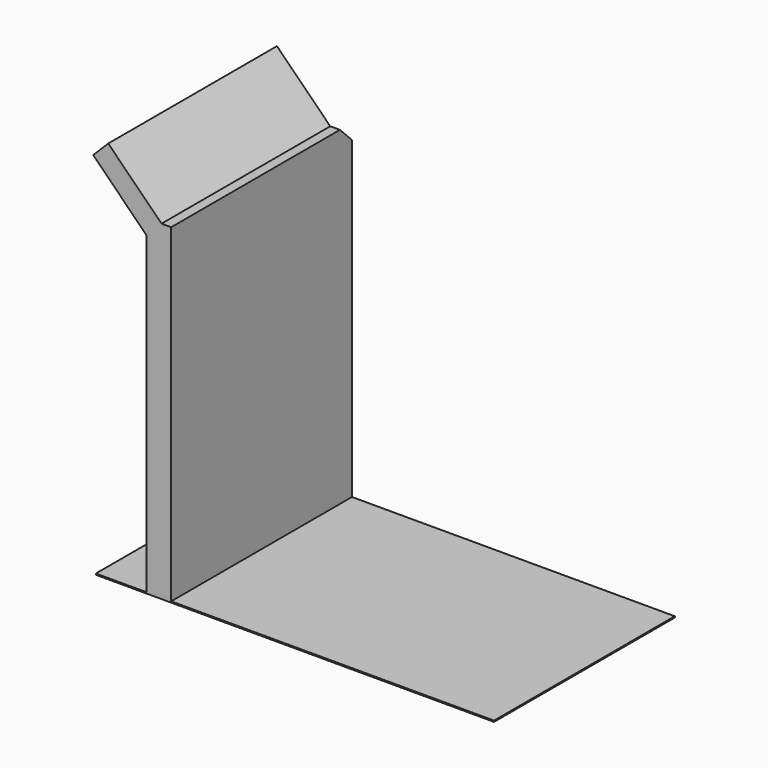
from build123d import *

# Parameters (mm, degrees)
F0_W     = 8.3429142833
F0_H     = 111.0566146672
F1_DEPTH = 76.2
F0_W_2   = 108.8683158159
F0_H_2   = 0.4005401015
F2_DEPTH = 25.4
F3_SIZE  = 5.08
F4_DEPTH = 25.4


with BuildPart() as f1:
    # F0 (on Front) → F1 (new body)
    with BuildSketch(Plane.XZ):
        with Locations((-72.48769328, 5.1288474351)):
            Rectangle(F0_W, F0_H)
    extrude(amount=F1_DEPTH)



with BuildPart() as f1b:
    # F0 (on Front) → F1, piece 2 (new body)
    with BuildSketch(Plane.XZ):
        with Locations((-13.8820782304, -50.5997299492)):
            Rectangle(F0_W_2, F0_H_2)
    extrude(amount=F1_DEPTH)


with BuildPart() as f1_1:
    add(f1.part)
    # F2 (add): a face of the model
    f2_faces = [f1b.part.faces().sort_by_distance(p)[0] for p in [
        (-68.3162361383, -38.1, -50.5997299492),
    ]]

    add(f1b.part)  # F2 merges F1b
    extrude(f2_faces, amount=F2_DEPTH)

    # F3
    f3_edges = [f1_1.edges().sort_by_distance(p)[0] for p in [
        (-76.65915, -38.1, 60.657155),
        (-72.487693, 0, 60.657155),
    ]]
    chamfer(f3_edges, length=F3_SIZE)

    # F4 (add): a face of the model
    f4_faces = [f1_1.faces().sort_by_distance(p)[0] for p in [
        (-74.1483458239, -39.3554022989, 58.0879593664),
    ]]
    extrude(f4_faces, amount=F4_DEPTH)


solid = f1_1.part
